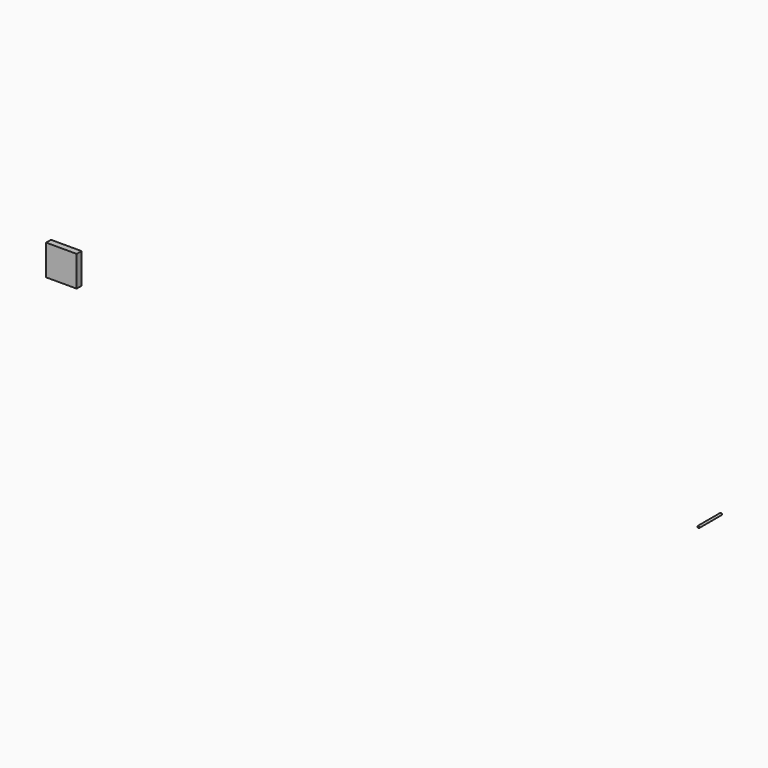
from build123d import *

# Parameters (mm, degrees)
F0_R     = 0.406
F1_DEPTH = 11
F2_W     = 12
F2_H     = 12
F3_DEPTH = 2.4


with BuildPart() as f1:
    # F0 (on Front) → F1 (new body)
    with BuildSketch(Plane.XZ):
        with Locations((24.160525, 27.594596)):
            Circle(F0_R)
    extrude(amount=F1_DEPTH)


with BuildPart() as f3:
    # F2 (on Front) → F3 (new body)
    with BuildSketch(Plane.XZ):
        with Locations((-232.629019, 30.84787)):
            Rectangle(F2_W, F2_H)
    extrude(amount=F3_DEPTH)


solid = Compound([f1.part, f3.part])
